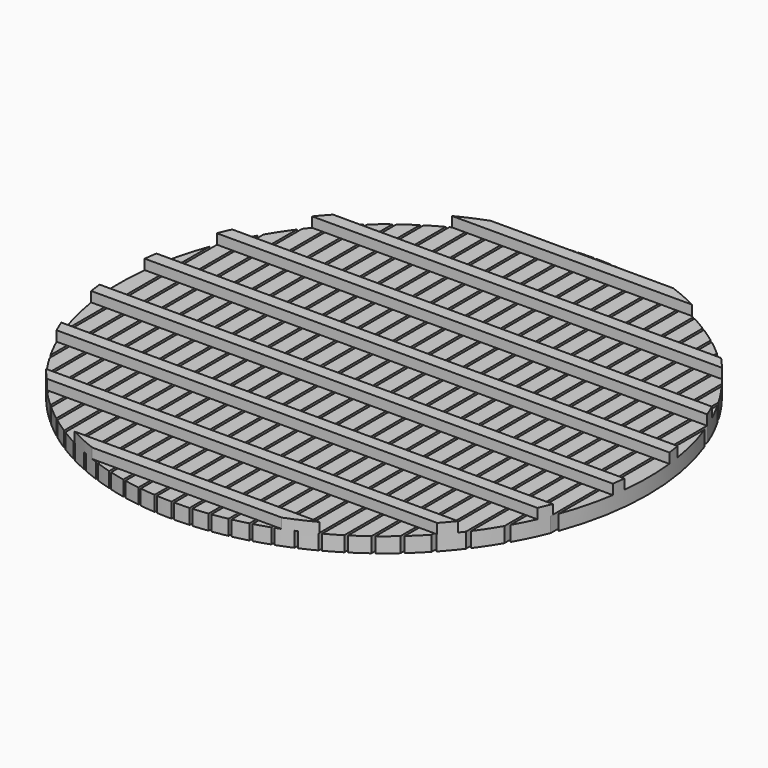
from build123d import *

# Parameters (mm, degrees)
F0_R      = 26.67
F1_DEPTH  = 1.524
F2_W      = 0.254
F2_H      = 55.88
F3_DEPTH  = 1.525
F4_R      = 26.162
F5_DEPTH  = 1.016
F6_R      = 22.479
F7_DEPTH  = 1.524
F8_W      = 55.88
F8_H      = 1.27
F9_DEPTH  = 1.016
F10_R     = 42.253278
F10_R_2   = 26.67
F11_DEPTH = 25.4


with BuildPart() as f1:
    # F0 (on Top) → F1 (new body)
    with BuildSketch(Plane.XY):
        Circle(F0_R)
    extrude(amount=F1_DEPTH)

    # F2 (on face) → F3 (cut, through all)
    with BuildSketch(Plane.XY.offset(1.524)):
        with Locations((0, -0.523007)):
            Rectangle(F2_W, F2_H)
        with Locations((1.778, -0.523007)):
            Rectangle(F2_W, F2_H)
        with Locations((3.556, -0.523007)):
            Rectangle(F2_W, F2_H)
        with Locations((5.334, -0.523007)):
            Rectangle(F2_W, F2_H)
        with Locations((7.112, -0.523007)):
            Rectangle(F2_W, F2_H)
        with Locations((8.89, -0.523007)):
            Rectangle(F2_W, F2_H)
        with Locations((10.668, -0.523007)):
            Rectangle(F2_W, F2_H)
        with Locations((12.446, -0.523007)):
            Rectangle(F2_W, F2_H)
        with Locations((14.224, -0.523007)):
            Rectangle(F2_W, F2_H)
        with Locations((16.002, -0.523007)):
            Rectangle(F2_W, F2_H)
        with Locations((17.78, -0.523007)):
            Rectangle(F2_W, F2_H)
        with Locations((19.558, -0.523007)):
            Rectangle(F2_W, F2_H)
        with Locations((21.336, -0.523007)):
            Rectangle(F2_W, F2_H)
        with Locations((23.114, -0.523007)):
            Rectangle(F2_W, F2_H)
        with Locations((24.892, -0.523007)):
            Rectangle(F2_W, F2_H)
        with Locations((-1.778, -0.523007)):
            Rectangle(F2_W, F2_H)
        with Locations((-3.556, -0.523007)):
            Rectangle(F2_W, F2_H)
        with Locations((-5.334, -0.523007)):
            Rectangle(F2_W, F2_H)
        with Locations((-7.112, -0.523007)):
            Rectangle(F2_W, F2_H)
        with Locations((-8.89, -0.523007)):
            Rectangle(F2_W, F2_H)
        with Locations((-10.668, -0.523007)):
            Rectangle(F2_W, F2_H)
        with Locations((-12.446, -0.523007)):
            Rectangle(F2_W, F2_H)
        with Locations((-14.224, -0.523007)):
            Rectangle(F2_W, F2_H)
        with Locations((-16.002, -0.523007)):
            Rectangle(F2_W, F2_H)
        with Locations((-17.78, -0.523007)):
            Rectangle(F2_W, F2_H)
        with Locations((-19.558, -0.523007)):
            Rectangle(F2_W, F2_H)
        with Locations((-21.336, -0.523007)):
            Rectangle(F2_W, F2_H)
        with Locations((-23.114, -0.523007)):
            Rectangle(F2_W, F2_H)
        with Locations((-24.892, -0.523007)):
            Rectangle(F2_W, F2_H)
    extrude(amount=-F3_DEPTH, mode=Mode.SUBTRACT)

    # F4 (on Top) → F5 (join)
    with BuildSketch(Plane.XY):
        Circle(F4_R)
    extrude(amount=F5_DEPTH)

    # F6 (on face) → F7 (join)
    with BuildSketch(Plane(origin=(0, 0, 0), x_dir=(1, 0, 0), z_dir=(0, 0, -1))):
        Circle(F6_R)
    extrude(amount=F7_DEPTH)

    # F8 (on face) → F9 (join)
    with BuildSketch(Plane.XY.offset(1.524)):
        with Locations((-0.127, -24.257)):
            Rectangle(F8_W, F8_H)
        with Locations((-0.127, -17.30756)):
            Rectangle(F8_W, F8_H)
        with Locations((-0.127, -10.35812)):
            Rectangle(F8_W, F8_H)
        with Locations((-0.127, -3.40868)):
            Rectangle(F8_W, F8_H)
        with Locations((-0.127, 3.54076)):
            Rectangle(F8_W, F8_H)
        with Locations((-0.127, 10.4902)):
            Rectangle(F8_W, F8_H)
        with Locations((-0.127, 17.43964)):
            Rectangle(F8_W, F8_H)
        with Locations((-0.127, 24.38908)):
            Rectangle(F8_W, F8_H)
    extrude(amount=F9_DEPTH)

    # F10 (on face) → F11 (cut)
    with BuildSketch(Plane.XY.offset(2.54)):
        Circle(F10_R)
        Circle(F10_R_2, mode=Mode.SUBTRACT)
    extrude(amount=-F11_DEPTH, mode=Mode.SUBTRACT)


solid = f1.part
